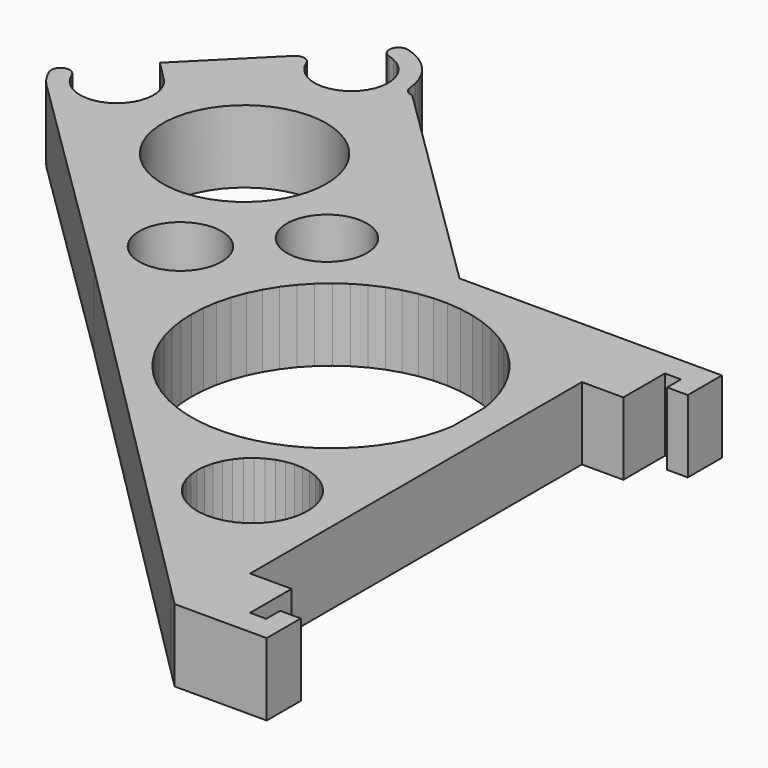
from build123d import *

# Parameters (mm, degrees)
F2_DEPTH = 20
F1_R     = 22.557398
F1_R_2   = 11.364801
F1_R_3   = 11.038468
F3_DEPTH = 20.001


with BuildPart() as f2:
    # F0 (on Top) → F2 (new body)
    with BuildSketch(Plane.XY):
        Polygon((-110.880549, 88.056358), (-110.95238, 88.009342), (-112.317071, 87.115948), (-112.395786, 87.081683), (-113.89144, 86.430834), (-113.974802, 86.410311), (-115.558696, 86.020624), (-115.644319, 86.014452), (-117.271214, 85.897002), (-117.35666, 85.905333), (-118.980101, 86.06355), (-119.06293, 86.08613), (-120.636537, 86.515467), (-120.714388, 86.551687), (-122.193226, 87.239849), (-122.263864, 87.288643), (-123.60572, 88.216022), (-123.667112, 88.276017), (-124.833658, 89.416096), (-124.884077, 89.485565), (-125.841962, 90.805806), (-125.87996, 90.882793), (-126.601879, 92.345452), (-126.798907, 92.741972), (-127.061771, 93.098232), (-127.382497, 93.403439), (-127.751381, 93.64832), (-128.157172, 93.825409), (-128.587549, 93.929371), (-129.029433, 93.957006), (-129.469412, 93.907476), (-129.8941, 93.782305), (-130.290594, 93.585303), (-130.64688, 93.322413), (-130.952086, 93.001687), (-131.196942, 92.632803), (-131.374056, 92.227012), (-131.477993, 91.796635), (-131.505628, 91.354751), (-131.456098, 90.914772), (-131.330927, 90.490084), (-130.481272, 88.696768), (-130.436542, 88.602381), (-129.349626, 86.942085), (-129.292425, 86.854709), (-127.988694, 85.358649), (-127.920063, 85.279909), (-66.584805, 24.908789), (39.202589, -80.878629), (44.77037, -86.446385), (68.90037, -86.446385), (70.17037, -86.446385), (70.17037, -75.28626), (70.17037, -74.698885), (64.74112, -74.698885), (64.45537, -74.698885), (64.45537, -76.921385), (64.45537, -77.411758), (64.45537, -78.193062), (64.45537, -79.484169), (60.01037, -79.484169), (60.01037, -76.211049), (60.01037, -74.151617), (60.01037, -72.793885), (60.01037, -65.173885), (54.93037, -65.173885), (48.58037, -65.173885), (48.58037, -9.293885), (48.58037, 49.126115), (53.66037, 49.126115), (60.01037, 49.126115), (60.01037, 58.103846), (60.01037, 60.163253), (60.01037, 63.436398), (64.45537, 63.436398), (64.45537, 62.145266), (64.45537, 61.363987), (64.45537, 60.873615), (64.45537, 58.898053), (64.45537, 58.651115), (69.88462, 58.651115), (70.17037, 58.651115), (70.17037, 69.81124), (70.17037, 70.398615), (1.4589, 70.398615), (-2.178482, 70.400367), (-63.51374, 130.771487), (-63.933373, 130.809942), (-64.340866, 130.917283), (-64.724964, 131.090536), (-65.075103, 131.324978), (-65.381656, 131.614106), (-65.636139, 131.949945), (-65.831566, 132.323274), (-65.962529, 132.723807), (-66.025597, 133.119361), (-66.368852, 135.346611), (-66.386937, 135.463832), (-67.071645, 137.610792), (-67.107688, 137.723797), (-68.117287, 139.738525), (-68.170424, 139.844545), (-69.480429, 141.678196), (-69.54939, 141.774691), (-71.128076, 143.382841), (-71.211159, 143.467474), (-73.020274, 144.811159), (-73.115473, 144.881898), (-75.111177, 145.928556), (-75.216231, 145.983648), (-77.350187, 146.707929), (-77.46248, 146.746055), (-77.899436, 146.817505), (-78.342158, 146.811968), (-78.777184, 146.729646), (-79.191306, 146.57303), (-79.57195, 146.346868), (-79.907535, 146.05807), (-80.187875, 145.715374), (-80.404435, 145.329217), (-80.550663, 144.911311), (-80.622088, 144.474355), (-80.616576, 144.031633), (-80.534255, 143.596607), (-80.377638, 143.18246), (-80.151477, 142.801841), (-79.862679, 142.466256), (-79.519982, 142.185917), (-79.133826, 141.969331), (-78.715894, 141.823128), (-78.634258, 141.794731), (-77.082725, 141.255489), (-77.007084, 141.213681), (-75.569469, 140.419169), (-75.501981, 140.365118), (-74.219916, 139.338348), (-74.162563, 139.273654), (-73.073157, 138.04437), (-73.02764, 137.970888), (-72.16244, 136.574676), (-72.130004, 136.494539), (-71.51408, 134.971834), (-71.495715, 134.887354), (-71.146897, 133.282277), (-71.143138, 133.195891), (-71.07151, 131.554899), (-71.082457, 131.469149), (-71.290128, 129.839789), (-71.315426, 129.757112), (-71.796375, 128.186554), (-71.835339, 128.109389), (-72.575622, 126.643123), (-72.627108, 126.57368), (-73.605287, 125.25415), (-73.667796, 125.194434), (-74.855551, 124.059892), (-74.927281, 124.011632), (-76.290219, 123.094896), (-76.369086, 123.059513), (-77.867737, 122.38715), (-77.951456, 122.365662), (-79.54241, 121.957153), (-79.628567, 121.950168), (-81.265749, 121.817326), (-81.351855, 121.825048), (-82.987844, 121.971733), (-83.071384, 121.993958), (-84.658808, 122.415903), (-84.737396, 122.451971), (-86.230281, 123.136983), (-86.301604, 123.185828), (-87.656719, 124.114071), (-87.718721, 124.174294), (-88.896824, 125.318869), (-88.947725, 125.388744), (-89.914703, 126.716504), (-89.953006, 126.793999), (-90.680869, 128.266488), (-90.865603, 128.642687), (-91.109697, 128.983378), (-91.406471, 129.279313), (-91.747897, 129.522391), (-92.12463, 129.706033), (-92.526433, 129.825235), (-92.942383, 129.876721), (-93.361128, 129.859093), (-93.771261, 129.77286), (-94.161659, 129.620384), (-94.521628, 129.405754), (-94.84144, 129.134863), (-114.322401, 109.653901), (-115.347723, 108.62858), (-110.228963, 103.509819), (-109.95957, 103.240427), (-109.904198, 103.174793), (-108.85241, 101.928085), (-108.808874, 101.854095), (-107.982028, 100.448052), (-107.951599, 100.367788), (-107.373317, 98.84262), (-107.356832, 98.758368), (-107.043625, 97.157584), (-107.041568, 97.071757), (-107.002401, 95.441103), (-107.014821, 95.35614), (-107.250787, 93.742173), (-107.277356, 93.660537), (-107.781724, 92.109359), (-107.821627, 92.033337), (-108.58002, 90.589246), (-108.632166, 90.521047), (-109.622893, 89.225266), (-109.685758, 89.16682), align=None)
        Polygon((10.310673, -39.271067), (9.77994, -37.003025), (9.601632, -34.68055), (9.77994, -32.358051), (10.310673, -30.090008), (11.18141, -27.929561), (12.371756, -25.927355), (13.85377, -24.130305), (15.59273, -22.580549), (17.547869, -21.31441), (19.673392, -20.361554), (21.919438, -19.744334), (24.233378, -19.477203), (26.561009, -19.566407), (28.84772, -20.009891), (31.039918, -20.797241), (33.086269, -21.910015), (34.938741, -23.322102), (36.553978, -25.000433), (37.894082, -26.905636), (38.927634, -28.993109), (39.630452, -31.213857), (39.986026, -33.515884), (39.986026, -35.845217), (39.630452, -38.147219), (38.927634, -40.367991), (37.894082, -42.45544), (36.553978, -44.360668), (34.938741, -46.038999), (33.086269, -47.451086), (31.039918, -48.56386), (28.84772, -49.351184), (26.561009, -49.794668), (24.233378, -49.883898), (21.919438, -49.616766), (19.673392, -48.999546), (17.547869, -48.046691), (15.59273, -46.780526), (13.85377, -45.230771), (12.371756, -43.433746), (11.18141, -41.431515), align=None, mode=Mode.SUBTRACT)
        Polygon((39.69037, 15.665729), (39.121563, 12.675337), (38.065405, 8.96046), (36.641837, 5.370297), (34.865183, 1.941119), (32.753402, -1.292504), (30.327829, -4.297883), (27.612924, -7.044715), (24.636095, -9.505239), (21.427389, -11.654663), (18.019192, -13.471246), (14.44592, -14.936699), (10.743641, -16.036188), (6.949719, -16.758641), (3.102458, -17.09674), (-0.759308, -17.047083), (-4.596613, -16.610178), (-8.370722, -15.790443), (-12.043512, -14.59611), (-15.577922, -13.039293), (-18.938291, -11.135665), (-22.090659, -8.904478), (-25.003252, -6.368212), (-27.64663, -3.552495), (-29.994149, -0.48575), (-32.022085, 2.801087), (-33.709966, 6.274816), (-35.040773, 9.900387), (-36.001071, 13.641172), (-36.581156, 17.459477), (-36.775161, 21.316696), (-36.581156, 25.173915), (-36.001071, 28.992195), (-35.040773, 32.73298), (-33.709966, 36.358551), (-32.022085, 39.83228), (-29.994149, 43.119116), (-27.64663, 46.185861), (-25.003252, 49.001578), (-22.090659, 51.537845), (-18.938291, 53.769057), (-15.577922, 55.67266), (-12.043512, 57.229502), (-8.370722, 58.42381), (-4.596613, 59.243544), (-0.759308, 59.68045), (3.102458, 59.730107), (6.949719, 59.392007), (10.743641, 58.669555), (14.44592, 57.570065), (18.019192, 56.104638), (21.427389, 54.28803), (24.636095, 52.138605), (27.612924, 49.678082), (30.327829, 46.93125), (32.753402, 43.925871), (34.865183, 40.692248), (36.641837, 37.26307), (38.065405, 33.672932), (39.121563, 29.95803), (39.69037, 26.96784), (39.69037, 26.906449), (39.69037, 23.509859), (39.69037, 23.380446), (39.69037, 21.300491), (39.69037, 21.253171), (39.69037, 21.118805), (39.69037, 21.088477), (39.69037, 18.735599), (39.69037, 18.043144), (39.69037, 17.901361), (39.69037, 17.214774), (39.69037, 16.953078), (39.69037, 16.791762), (39.69037, 16.691813), (39.69037, 16.601719), (39.69037, 16.547897), (39.69037, 16.479901), (39.69037, 16.283356), (39.69037, 16.24424), align=None, mode=Mode.SUBTRACT)
    extrude(amount=-F2_DEPTH)

    # F1 (on face) → F3 (cut, through all)
    with BuildSketch(Plane.XY):
        with Locations((-74.656412, 86.95592)):
            Circle(F1_R)
        with Locations((-58.365788, 44.501565)):
            Circle(F1_R_2)
        with Locations((-36.151301, 67.209706)):
            Circle(F1_R_3)
    extrude(amount=-F3_DEPTH, mode=Mode.SUBTRACT)


solid = f2.part
